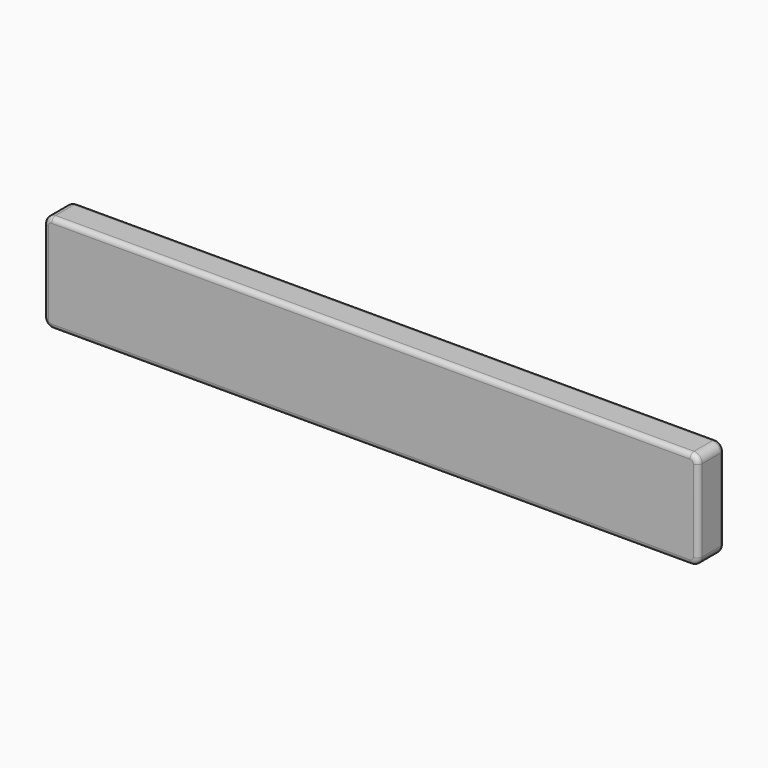
from build123d import *

# Parameters (mm, degrees)
F1_DEPTH = 20
F2_R     = 3


with BuildPart() as f1:
    # F0 (on Front) → F1 (new body)
    with BuildSketch(Plane.XZ):
        with BuildLine():
            Line((-194.5, -30), (194.5, -30))
            ThreePointArc((194.5, -30), (198.035534, -28.535534), (199.5, -25))
            Line((199.5, -25), (199.5, 25))
            ThreePointArc((199.5, 25), (198.035534, 28.535534), (194.5, 30))
            Line((194.5, 30), (-194.5, 30))
            ThreePointArc((-194.5, 30), (-198.035534, 28.535534), (-199.5, 25))
            Line((-199.5, 25), (-199.5, -25))
            ThreePointArc((-199.5, -25), (-198.035534, -28.535534), (-194.5, -30))
        make_face()
    extrude(amount=F1_DEPTH)

    # F2
    f2_edges = [f1.edges().sort_by_distance(p)[0] for p in [
        (0, -20, -30),
        (198.035534, -20, -28.535534),
        (199.5, -20, 0),
        (198.035534, -20, 28.535534),
        (0, -20, 30),
        (-198.035534, -20, 28.535534),
        (-199.5, -20, 0),
        (-198.035534, -20, -28.535534),
        (0, 0, -30),
        (198.035534, 0, -28.535534),
        (199.5, 0, 0),
        (198.035534, 0, 28.535534),
        (0, 0, 30),
        (-198.035534, 0, 28.535534),
        (-199.5, 0, 0),
        (-198.035534, 0, -28.535534),
    ]]
    fillet(f2_edges, radius=F2_R)


solid = f1.part
